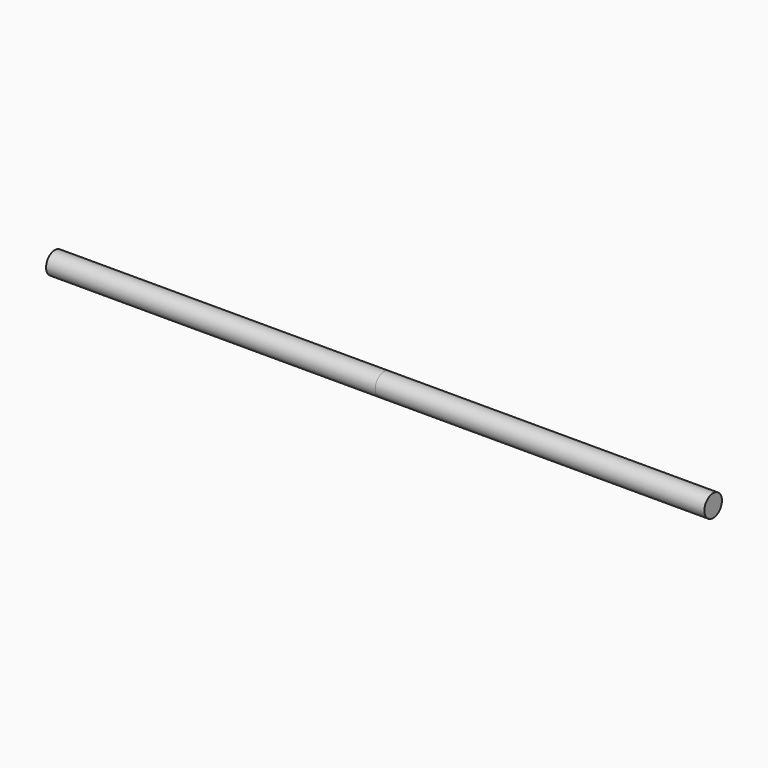
from build123d import *

# Parameters (mm, degrees)
F0_W = 300
F0_H = 10


with BuildPart() as f1:
    # F0 (on Front) → F1 (revolve)
    with BuildSketch(Plane.XZ):
        with Locations((-150, 5)):
            Rectangle(F0_W, F0_H)
    revolve(axis=Axis((-150, 0, 0), (1, 0, 0)))

    # F2: F1 across plane


with BuildPart() as f1_1:
    add(f1.part)
    add(f1.part.mirror(Plane.YZ))


solid = f1_1.part
